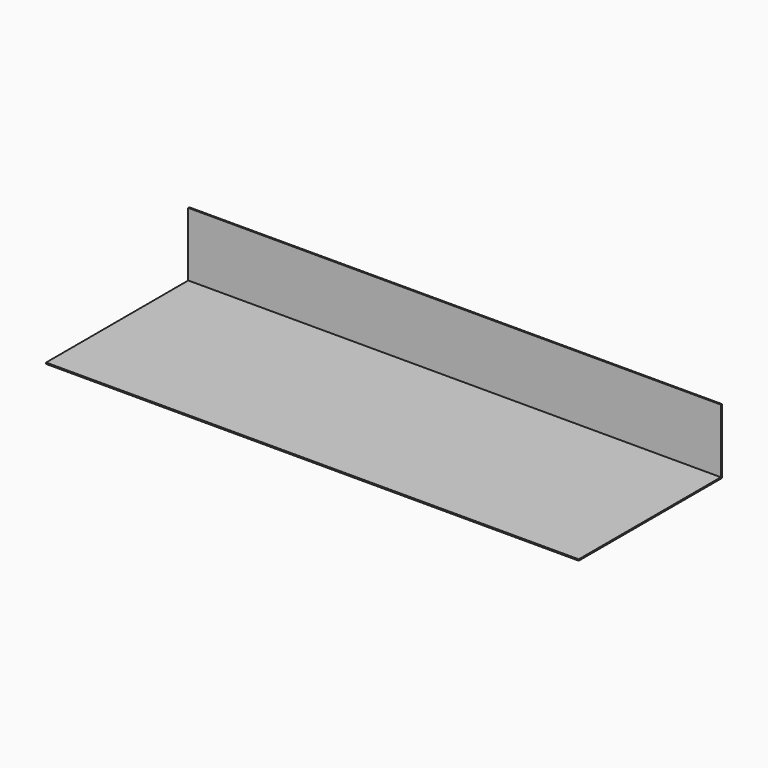
from build123d import *

# Parameters (mm, degrees)
F0_W      = 2500
F0_H      = 840
F1_DEPTH  = 6
F2_W      = 2500
F2_H      = 6
F3_DEPTH  = 25
F3_FACE_W = 2500
F3_FACE_H = 6
F4_DEPTH  = 275


with BuildPart() as f1:
    # F0 (on Top) → F1 (new body)
    with BuildSketch(Plane.XY):
        with Locations((1151.201837, 401.51958)):
            Rectangle(F0_W, F0_H)
    extrude(amount=F1_DEPTH)

    # F2 (on face) → F3 (join)
    with BuildSketch(Plane.XY.offset(6)):
        with Locations((1151.201837, 818.51958)):
            Rectangle(F2_W, F2_H)
    extrude(amount=F3_DEPTH)

    # F3_face (on face) → F4 (join)
    with BuildSketch(Plane(origin=(1151.201837, 818.51958, 31), x_dir=(1, 0, 0), z_dir=(0, 0, 1))):
        Rectangle(F3_FACE_W, F3_FACE_H)
    extrude(amount=F4_DEPTH)


solid = f1.part
